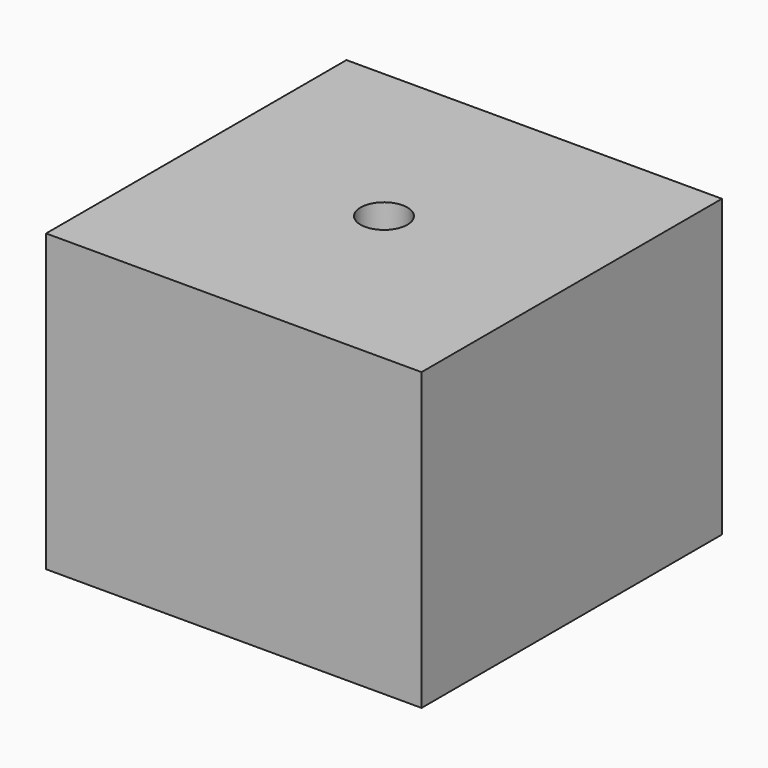
from build123d import *

# Parameters (mm, degrees)
SKETCH_W    = 25.4
SKETCH_H    = 25.4
PAD_DEPTH   = 20
SKETCH001_R = 1.585
HOLE_DEPTH  = 20.001


with BuildPart() as part:
    # Sketch → Pad (new body)
    with BuildSketch(Plane.XY):
        Rectangle(SKETCH_W, SKETCH_H)
    extrude(amount=PAD_DEPTH)

    # Sketch001 (on Face6 of Pad) → Hole (cut, through all)
    with BuildSketch(Plane.XY.offset(20)):
        Circle(SKETCH001_R)
    extrude(amount=-HOLE_DEPTH, mode=Mode.SUBTRACT)


solid = part.part
